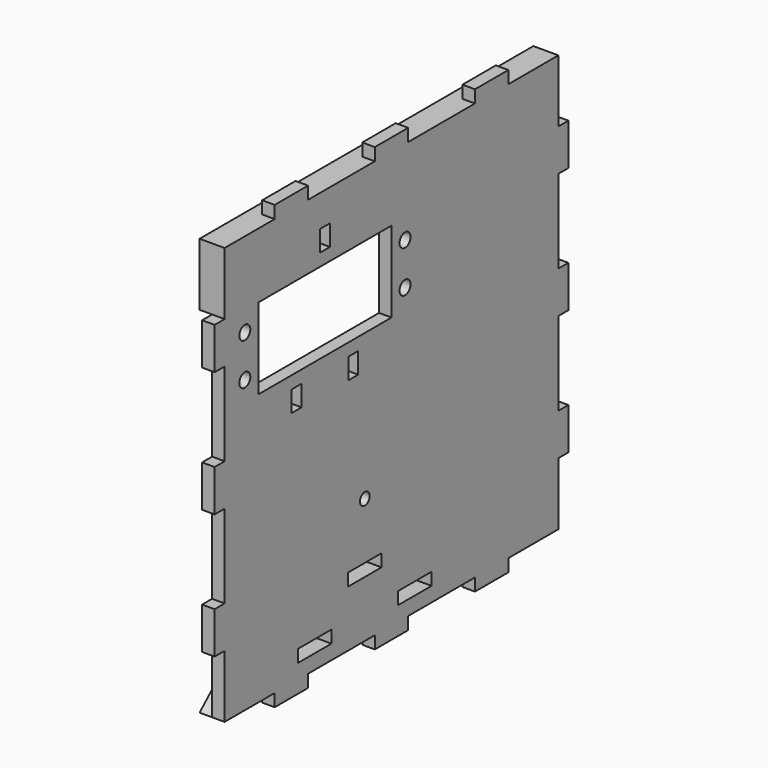
from build123d import *

# Parameters (mm, degrees)
F0_R     = 1.45
F0_W     = 10
F0_H     = 3
F0_W_2   = 3
F0_H_2   = 10
F1_DEPTH = 3
F2_R     = 1.65
F2_W     = 2.98
F2_H     = 5
F2_W_2   = 39.9
F2_H_2   = 19.4
F3_DEPTH = 25
F2_R_2   = 1.45
F4_DEPTH = 3
F5_W     = 10
F5_H     = 2.98
F6_DEPTH = 12.5


with BuildPart() as f1:
    # F0 (on Right) → F1 (new body)
    with BuildSketch(Plane.YZ):
        Polygon((-35, 50), (-50, 50), (-50, 35), (-47, 35), (-47, 25), (-50, 25), (-50, 5), (-47, 5), (-47, -5), (-50, -5), (-50, -25), (-47, -25), (-47, -35), (-50, -35), (-50, -50), (-35, -50), (-35, -47), (-25, -47), (-25, -50), (-5, -50), (-5, -47), (5, -47), (5, -50), (25, -50), (25, -47), (35, -47), (35, -50), (50, -50), (50, -35), (47, -35), (47, -25), (50, -25), (50, -5), (47, -5), (47, 5), (50, 5), (50, 25), (47, 25), (47, 35), (50, 35), (50, 50), (35, 50), (35, 47), (25, 47), (25, 50), (5, 50), (5, 47), (-5, 47), (-5, 50), (-25, 50), (-25, 47), (-35, 47), align=None)
        with Locations((-8, -20)):
            Circle(F0_R, mode=Mode.SUBTRACT)
        with Locations((-30, 51.5)):
            Rectangle(F0_W, F0_H)
        with Locations((-30, 48.5)):
            Rectangle(F0_W, F0_H)
        with Locations((-48.5, 30)):
            Rectangle(F0_W_2, F0_H_2)
        with Locations((-51.5, 30)):
            Rectangle(F0_W_2, F0_H_2)
        with Locations((0, 51.5)):
            Rectangle(F0_W, F0_H)
        with Locations((0, 48.5)):
            Rectangle(F0_W, F0_H)
        with Locations((-48.5, 0)):
            Rectangle(F0_W_2, F0_H_2)
        with Locations((-51.5, 0)):
            Rectangle(F0_W_2, F0_H_2)
        with Locations((30, 51.5)):
            Rectangle(F0_W, F0_H)
        with Locations((30, 48.5)):
            Rectangle(F0_W, F0_H)
        with Locations((-48.5, -30)):
            Rectangle(F0_W_2, F0_H_2)
        with Locations((-51.5, -30)):
            Rectangle(F0_W_2, F0_H_2)
        with Locations((51.5, 30)):
            Rectangle(F0_W_2, F0_H_2)
        with Locations((48.5, 30)):
            Rectangle(F0_W_2, F0_H_2)
        with Locations((-30, -48.5)):
            Rectangle(F0_W, F0_H)
        with Locations((-30, -51.5)):
            Rectangle(F0_W, F0_H)
        with Locations((51.5, 0)):
            Rectangle(F0_W_2, F0_H_2)
        with Locations((48.5, 0)):
            Rectangle(F0_W_2, F0_H_2)
        with Locations((0, -48.5)):
            Rectangle(F0_W, F0_H)
        with Locations((0, -51.5)):
            Rectangle(F0_W, F0_H)
        with Locations((51.5, -30)):
            Rectangle(F0_W_2, F0_H_2)
        with Locations((48.5, -30)):
            Rectangle(F0_W_2, F0_H_2)
        with Locations((30, -48.5)):
            Rectangle(F0_W, F0_H)
        with Locations((30, -51.5)):
            Rectangle(F0_W, F0_H)
    extrude(amount=F1_DEPTH)

    # F2 (on face) → F3 (cut)
    with BuildSketch(Plane(origin=(0, 0, 0), x_dir=(0, -1, 0), z_dir=(-1, 0, 0))):
        with Locations((-4.05, 29.7)):
            Circle(F2_R)
        with Locations((-4.05, 19.7)):
            Circle(F2_R)
        with Locations((43.95, 29.7)):
            Circle(F2_R)
        with Locations((43.95, 19.7)):
            Circle(F2_R)
        with Locations((11.4694618905, 9.5)):
            Rectangle(F2_W, F2_H)
        with Locations((28.4305381095, 9.5)):
            Rectangle(F2_W, F2_H)
        with Locations((19.95, 24.7)):
            Rectangle(F2_W_2, F2_H_2)
        with Locations((19.95, 39.9)):
            Rectangle(F2_W, F2_H)
    extrude(amount=-F3_DEPTH, mode=Mode.SUBTRACT)

    # F2 (on face) → F4 (join)
    with BuildSketch(Plane(origin=(0, 0, 0), x_dir=(0, -1, 0), z_dir=(-1, 0, 0))):
        Polygon((-50, 50), (-50, 35), (50, 35), (50, 50), (35, 50), (25, 50), (5, 50), (-5, 50), (-25, 50), (-35, 50), align=None)
        with Locations((19.95, 39.9)):
            Rectangle(F2_W, F2_H, mode=Mode.SUBTRACT)
        Polygon((-50, -35), (-50, -50), (-35, -50), (-25, -50), (-5, -50), (5, -50), (25, -50), (35, -50), (50, -50), (-20, 13), (-50, 13), (-50, 5), (-50, -5), (-50, -25), align=None)
        with Locations((8, -20)):
            Circle(F2_R_2, mode=Mode.SUBTRACT)
    extrude(amount=F4_DEPTH)

    # F5 (on Right) → F6 (cut, symmetric)
    with BuildSketch(Plane.YZ):
        with Locations((7, -45)):
            Rectangle(F5_W, F5_H)
        with Locations((-23, -45)):
            Rectangle(F5_W, F5_H)
        with Locations((-8, -35)):
            Rectangle(F5_W, F5_H)
    extrude(amount=F6_DEPTH, both=True, mode=Mode.SUBTRACT)


solid = f1.part
